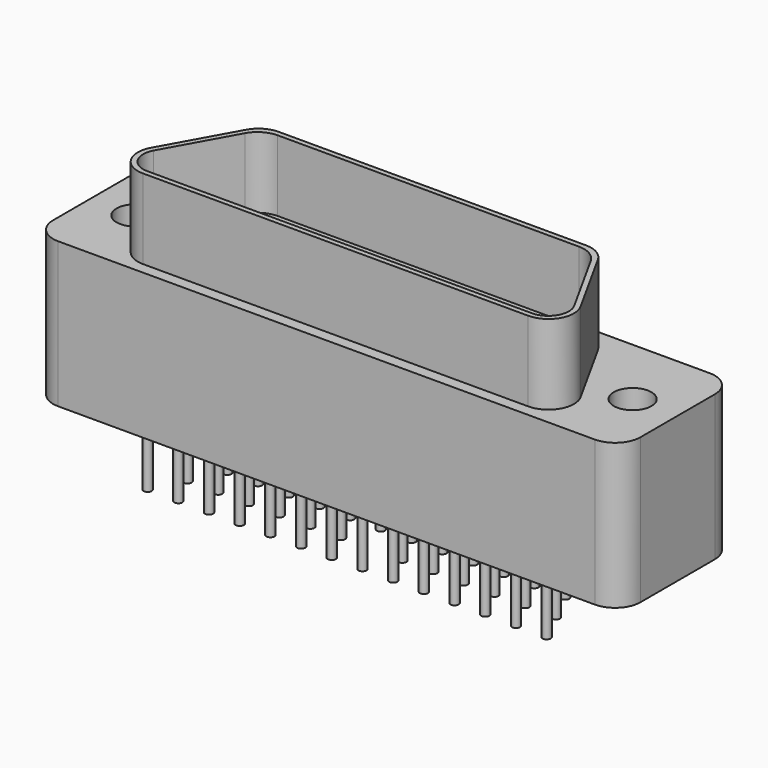
from build123d import *

# Parameters (mm, degrees)
F0_R     = 1.1684
F1_DEPTH = 4.5085
F3_DEPTH = 4.953
F5_DEPTH = 4.4069
F6_R     = 0.254
F7_DEPTH = 3.81


with BuildPart() as f1:
    # F0 (on Top) → F1 (new body, symmetric)
    with BuildSketch(Plane.XY):
        with BuildLine():
            Line((16.6497, 4.4577), (-16.6497, 4.4577))
            ThreePointArc((-16.6497, 4.4577), (-17.763252, 3.996452), (-18.2245, 2.8829))
            Line((-18.2245, 2.8829), (-18.2245, -2.8829))
            ThreePointArc((-18.2245, -2.8829), (-17.763252, -3.996452), (-16.6497, -4.4577))
            Line((-16.6497, -4.4577), (16.6497, -4.4577))
            ThreePointArc((16.6497, -4.4577), (17.763252, -3.996452), (18.2245, -2.8829))
            Line((18.2245, -2.8829), (18.2245, 2.8829))
            ThreePointArc((18.2245, 2.8829), (17.763252, 3.996452), (16.6497, 4.4577))
        make_face()
        with Locations((-15.4305, 0)):
            Circle(F0_R, mode=Mode.SUBTRACT)
        with Locations((15.4305, 0)):
            Circle(F0_R, mode=Mode.SUBTRACT)
    extrude(amount=F1_DEPTH, both=True)

    # F2 (on face) → F3 (join)
    with BuildSketch(Plane.XY.offset(4.5085)):
        with BuildLine():
            Line((-11.95692, -3.7592), (11.958378, -3.7592))
            ThreePointArc((11.958378, -3.7592), (13.315271, -2.983671), (13.335729, -1.420922))
            Line((13.335729, -1.420922), (10.914063, 2.947878))
            ThreePointArc((10.914063, 2.947878), (10.335984, 3.541294), (9.536712, 3.7592))
            Line((9.536712, 3.7592), (-9.535255, 3.7592))
            ThreePointArc((-9.535255, 3.7592), (-10.334526, 3.541294), (-10.912606, 2.947878))
            Line((-10.912606, 2.947878), (-13.334271, -1.420922))
            ThreePointArc((-13.334271, -1.420922), (-13.313814, -2.983671), (-11.95692, -3.7592))
        make_face()
    extrude(amount=F3_DEPTH)

    # F4 (on face) → F5 (cut)
    with BuildSketch(Plane.XY.offset(9.4615)):
        with BuildLine():
            Line((9.34969, 3.4417), (-9.348233, 3.4417))
            ThreePointArc((-9.348233, 3.4417), (-10.147504, 3.223794), (-10.725584, 2.630378))
            Line((-10.725584, 2.630378), (-13.046127, -1.555992))
            ThreePointArc((-13.046127, -1.555992), (-13.029629, -2.816274), (-11.93536, -3.4417))
            Line((-11.93536, -3.4417), (11.936817, -3.4417))
            ThreePointArc((11.936817, -3.4417), (13.031086, -2.816274), (13.047584, -1.555992))
            Line((13.047584, -1.555992), (10.727042, 2.630378))
            ThreePointArc((10.727042, 2.630378), (10.148962, 3.223794), (9.34969, 3.4417))
        make_face()
    extrude(amount=-F5_DEPTH, mode=Mode.SUBTRACT)

    # F6 (on face) → F7 (join)
    with BuildSketch(Plane(origin=(0, 0, -4.5085), x_dir=(1, 0, 0), z_dir=(0, 0, -1))):
        with Locations((-12.3825, 2.8575)):
            Circle(F6_R)
        with Locations((-10.4775, 2.8575)):
            Circle(F6_R)
        with Locations((-8.5725, 2.8575)):
            Circle(F6_R)
        with Locations((-6.6675, 2.8575)):
            Circle(F6_R)
        with Locations((-4.7625, 2.8575)):
            Circle(F6_R)
        with Locations((-2.8575, 2.8575)):
            Circle(F6_R)
        with Locations((-0.9525, 2.8575)):
            Circle(F6_R)
        with Locations((0.9525, 2.8575)):
            Circle(F6_R)
        with Locations((2.8575, 2.8575)):
            Circle(F6_R)
        with Locations((4.7625, 2.8575)):
            Circle(F6_R)
        with Locations((6.6675, 2.8575)):
            Circle(F6_R)
        with Locations((8.5725, 2.8575)):
            Circle(F6_R)
        with Locations((10.4775, 2.8575)):
            Circle(F6_R)
        with Locations((12.3825, 2.8575)):
            Circle(F6_R)
        with Locations((-11.43, 0.9525)):
            Circle(F6_R)
        with Locations((-9.525, 0.9525)):
            Circle(F6_R)
        with Locations((-7.62, 0.9525)):
            Circle(F6_R)
        with Locations((-5.715, 0.9525)):
            Circle(F6_R)
        with Locations((-3.81, 0.9525)):
            Circle(F6_R)
        with Locations((-1.905, 0.9525)):
            Circle(F6_R)
        with Locations((-10.4775, -0.9525)):
            Circle(F6_R)
        with Locations((-8.5725, -0.9525)):
            Circle(F6_R)
        with Locations((-6.6675, -0.9525)):
            Circle(F6_R)
        with Locations((-4.7625, -0.9525)):
            Circle(F6_R)
        with Locations((-2.8575, -0.9525)):
            Circle(F6_R)
        with Locations((-0.9525, -0.9525)):
            Circle(F6_R)
        with Locations((9.525, 0.9525)):
            Circle(F6_R)
        with Locations((7.62, 0.9525)):
            Circle(F6_R)
        with Locations((6.6675, -0.9525)):
            Circle(F6_R)
        with Locations((11.43, 0.9525)):
            Circle(F6_R)
        with Locations((4.7625, -0.9525)):
            Circle(F6_R)
        with Locations((2.8575, -0.9525)):
            Circle(F6_R)
        with Locations((5.715, 0.9525)):
            Circle(F6_R)
        with Locations((8.5725, -0.9525)):
            Circle(F6_R)
        with Locations((1.905, 0.9525)):
            Circle(F6_R)
        with Locations((3.81, 0.9525)):
            Circle(F6_R)
        with Locations((10.4775, -0.9525)):
            Circle(F6_R)
        with Locations((0.9525, -0.9525)):
            Circle(F6_R)
        with Locations((-11.43, -2.8575)):
            Circle(F6_R)
        with Locations((-9.525, -2.8575)):
            Circle(F6_R)
        with Locations((-7.62, -2.8575)):
            Circle(F6_R)
        with Locations((-5.715, -2.8575)):
            Circle(F6_R)
        with Locations((-3.81, -2.8575)):
            Circle(F6_R)
        with Locations((-1.905, -2.8575)):
            Circle(F6_R)
        with Locations((0, -2.8575)):
            Circle(F6_R)
        with Locations((1.905, -2.8575)):
            Circle(F6_R)
        with Locations((3.81, -2.8575)):
            Circle(F6_R)
        with Locations((5.715, -2.8575)):
            Circle(F6_R)
        with Locations((7.62, -2.8575)):
            Circle(F6_R)
        with Locations((9.525, -2.8575)):
            Circle(F6_R)
        with Locations((11.43, -2.8575)):
            Circle(F6_R)
    extrude(amount=F7_DEPTH)


solid = f1.part
